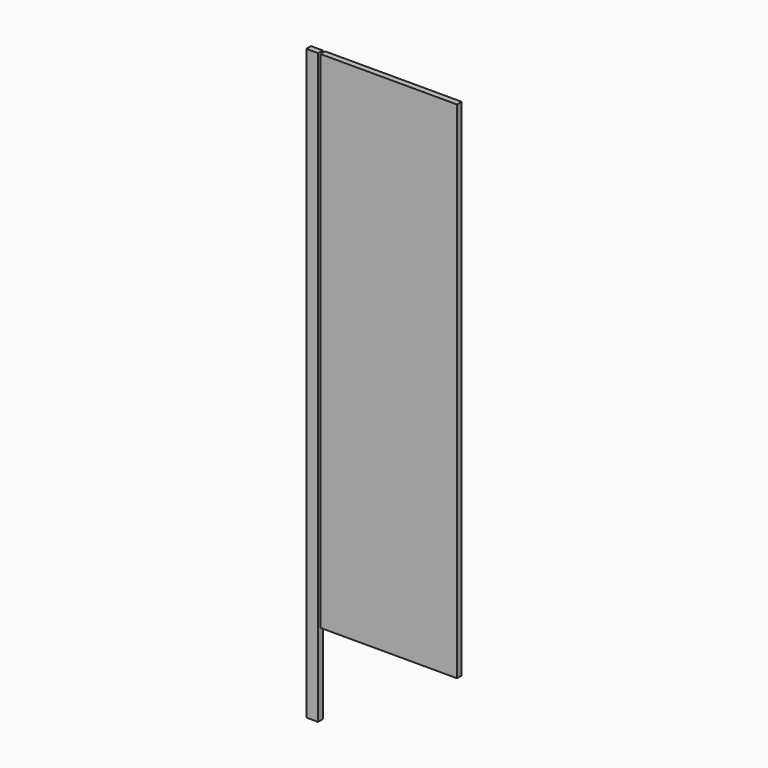
from build123d import *

# Parameters (mm, degrees)
F0_W     = 580
F0_H     = 2145
F1_DEPTH = 25
F2_W     = 50
F2_H     = 2500
F3_DEPTH = 25


with BuildPart() as f1:
    # F0 (on Front) → F1 (new body)
    with BuildSketch(Plane.XZ):
        Rectangle(F0_W, F0_H)
    extrude(amount=F1_DEPTH)


with BuildPart() as f3:
    # F2 (on Front) → F3 (new body)
    with BuildSketch(Plane.XZ):
        with Locations((-325, -177.5)):
            Rectangle(F2_W, F2_H)
    extrude(amount=F3_DEPTH)


solid = Compound([f1.part, f3.part])
